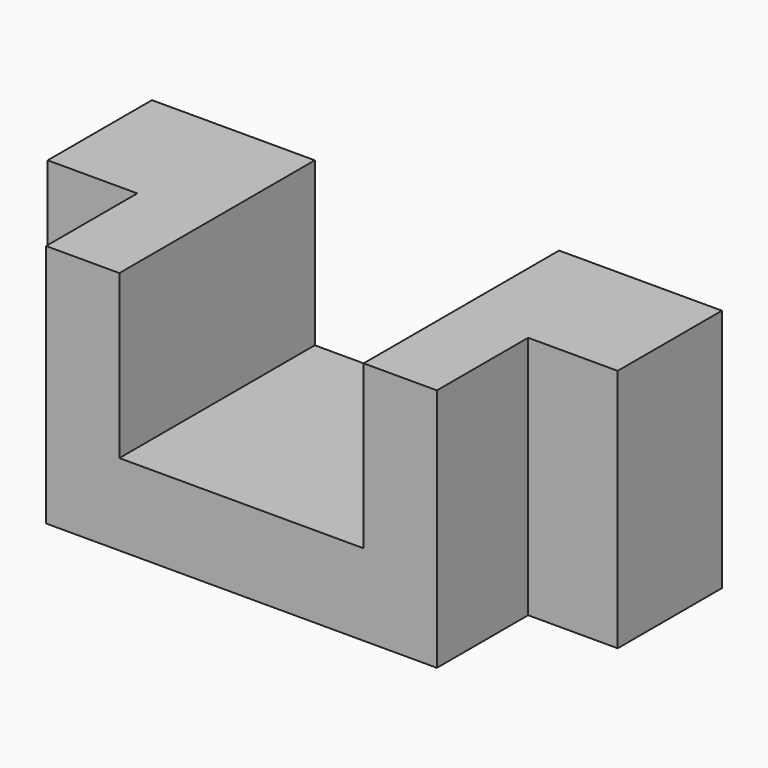
from build123d import *

# Parameters (mm, degrees)
F0_W     = 30
F0_H     = 30
F1_DEPTH = 10
F2_DEPTH = 30


with BuildPart() as f1:
    # F0 (on Top) → F1 (new body)
    with BuildSketch(Plane.XY):
        with Locations((-10.535714, -32.725744)):
            Rectangle(F0_W, F0_H)
    extrude(amount=F1_DEPTH)

    # F0 (on Top) → F2 (join)
    with BuildSketch(Plane.XY):
        Polygon((-25.535714, -17.725744), (-45.535714, -17.725744), (-45.535714, -33.725744), (-34.535714, -33.725744), (-34.535714, -47.725744), (-25.535714, -47.725744), align=None)
        Polygon((24.464286, -17.725744), (4.464286, -17.725744), (4.464286, -47.725744), (13.464286, -47.725744), (13.464286, -33.725744), (24.464286, -33.725744), align=None)
    extrude(amount=F2_DEPTH)


solid = f1.part
